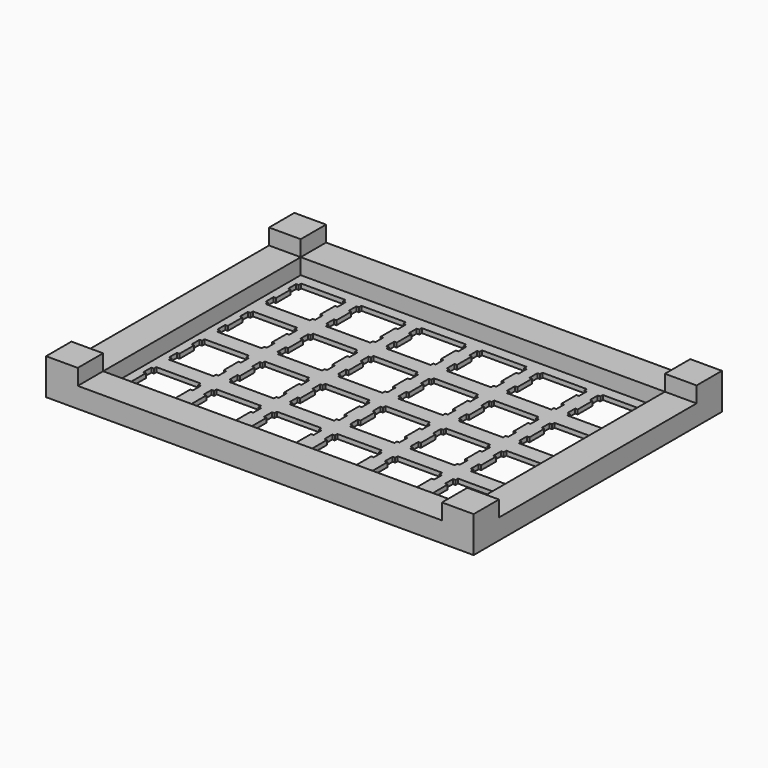
from build123d import *

# Parameters (mm, degrees)
F0_W     = 135
F0_H     = 98
F0_W_2   = 120.300293
F0_H_2   = 82.201274
F1_DEPTH = 1.4
F2_W     = 10
F2_H     = 10
F3_DEPTH = 10
F4_W     = 10
F4_H     = 78
F4_W_2   = 115
F4_H_2   = 10
F5_DEPTH = 5


with BuildPart() as f1:
    # F0 (on Top) → F1 (new body)
    with BuildSketch(Plane.XY):
        Rectangle(F0_W, F0_H)
        with Locations((0, 0)):
            Rectangle(F0_W_2, F0_H_2, mode=Mode.SUBTRACT)
        with Locations((0, 0)):
            Rectangle(F0_W_2, F0_H_2)
        Polygon((-54.625583, -22.574263), (-54.625583, -21.573863), (-40.624753, -21.573863), (-40.624753, -22.574263), (-39.825453, -22.574263), (-39.825453, -25.673463), (-40.624753, -25.673463), (-40.624753, -31.473673), (-39.825453, -31.473673), (-39.825453, -34.574233), (-40.624753, -34.574233), (-40.624753, -35.574713), (-54.625583, -35.574713), (-54.625583, -34.574233), (-55.426213, -34.574233), (-55.426213, -31.473673), (-54.625583, -31.473673), (-54.625583, -25.673463), (-55.426213, -25.673463), (-55.426213, -22.574263), align=None, mode=Mode.SUBTRACT)
        Polygon((-35.575553, -22.574263), (-35.575553, -21.573863), (-21.574853, -21.573863), (-21.574853, -22.574263), (-20.775453, -22.574263), (-20.775453, -25.673463), (-21.574853, -25.673463), (-21.574853, -31.473673), (-20.775453, -31.473673), (-20.775453, -34.574233), (-21.574853, -34.574233), (-21.574853, -35.574713), (-35.575553, -35.574713), (-35.575553, -34.574233), (-36.374853, -34.574233), (-36.374853, -31.473673), (-35.575553, -31.473673), (-35.575553, -25.673463), (-36.374853, -25.673463), (-36.374853, -22.574263), align=None, mode=Mode.SUBTRACT)
        Polygon((-16.525553, -22.574263), (-16.525553, -21.573863), (-2.524853, -21.573863), (-2.524853, -22.574263), (-1.725453, -22.574263), (-1.725453, -25.673463), (-2.524853, -25.673463), (-2.524853, -31.473673), (-1.725453, -31.473673), (-1.725453, -34.574233), (-2.524853, -34.574233), (-2.524853, -35.574713), (-16.525553, -35.574713), (-16.525553, -34.574233), (-17.324953, -34.574233), (-17.324953, -31.473673), (-16.525553, -31.473673), (-16.525553, -25.673463), (-17.324953, -25.673463), (-17.324953, -22.574263), align=None, mode=Mode.SUBTRACT)
        Polygon((-54.625583, -3.524363), (-54.625583, -2.523863), (-40.624753, -2.523863), (-40.624753, -3.524363), (-39.825453, -3.524363), (-39.825453, -6.624863), (-40.624753, -6.624863), (-40.624753, -12.423663), (-39.825453, -12.423663), (-39.825453, -15.524263), (-40.624753, -15.524263), (-40.624753, -16.524663), (-54.625583, -16.524663), (-54.625583, -15.524263), (-55.426213, -15.524263), (-55.426213, -12.423663), (-54.625583, -12.423663), (-54.625583, -6.624863), (-55.426213, -6.624863), (-55.426213, -3.524363), align=None, mode=Mode.SUBTRACT)
        Polygon((-35.575553, -3.524363), (-35.575553, -2.523863), (-21.574853, -2.523863), (-21.574853, -3.524363), (-20.775453, -3.524363), (-20.775453, -6.624863), (-21.574853, -6.624863), (-21.574853, -12.423663), (-20.775453, -12.423663), (-20.775453, -15.524263), (-21.574853, -15.524263), (-21.574853, -16.524663), (-35.575553, -16.524663), (-35.575553, -15.524263), (-36.374853, -15.524263), (-36.374853, -12.423663), (-35.575553, -12.423663), (-35.575553, -6.624863), (-36.374853, -6.624863), (-36.374853, -3.524363), align=None, mode=Mode.SUBTRACT)
        Polygon((-16.525553, -3.524363), (-16.525553, -2.523863), (-2.524853, -2.523863), (-2.524853, -3.524363), (-1.725453, -3.524363), (-1.725453, -6.624863), (-2.524853, -6.624863), (-2.524853, -12.423663), (-1.725453, -12.423663), (-1.725453, -15.524263), (-2.524853, -15.524263), (-2.524853, -16.524663), (-16.525553, -16.524663), (-16.525553, -15.524263), (-17.324953, -15.524263), (-17.324953, -12.423663), (-16.525553, -12.423663), (-16.525553, -6.624863), (-17.324953, -6.624863), (-17.324953, -3.524363), align=None, mode=Mode.SUBTRACT)
        Polygon((2.524447, -22.574263), (2.524447, -21.573863), (16.525147, -21.573863), (16.525147, -22.574263), (17.324547, -22.574263), (17.324547, -25.673463), (16.525147, -25.673463), (16.525147, -31.473673), (17.324547, -31.473673), (17.324547, -34.574233), (16.525147, -34.574233), (16.525147, -35.574713), (2.524447, -35.574713), (2.524447, -34.574233), (1.725047, -34.574233), (1.725047, -31.473673), (2.524447, -31.473673), (2.524447, -25.673463), (1.725047, -25.673463), (1.725047, -22.574263), align=None, mode=Mode.SUBTRACT)
        Polygon((21.574447, -22.574263), (21.574447, -21.573863), (35.575147, -21.573863), (35.575147, -22.574263), (36.374547, -22.574263), (36.374547, -25.673463), (35.575147, -25.673463), (35.575147, -31.473673), (36.374547, -31.473673), (36.374547, -34.574233), (35.575147, -34.574233), (35.575147, -35.574713), (21.574447, -35.574713), (21.574447, -34.574233), (20.775047, -34.574233), (20.775047, -31.473673), (21.574447, -31.473673), (21.574447, -25.673463), (20.775047, -25.673463), (20.775047, -22.574263), align=None, mode=Mode.SUBTRACT)
        Polygon((40.624147, -22.574263), (40.624147, -21.573863), (54.624147, -21.573863), (54.624147, -22.574263), (55.424147, -22.574263), (55.424147, -25.673463), (54.624147, -25.673463), (54.624147, -31.473673), (55.424147, -31.473673), (55.424147, -34.574233), (54.624147, -34.574233), (54.624147, -35.574713), (40.624147, -35.574713), (40.624147, -34.574233), (39.825147, -34.574233), (39.825147, -31.473673), (40.624147, -31.473673), (40.624147, -25.673463), (39.825147, -25.673463), (39.825147, -22.574263), align=None, mode=Mode.SUBTRACT)
        Polygon((2.524447, -3.524363), (2.524447, -2.523863), (16.525147, -2.523863), (16.525147, -3.524363), (17.324547, -3.524363), (17.324547, -6.624863), (16.525147, -6.624863), (16.525147, -12.423663), (17.324547, -12.423663), (17.324547, -15.524263), (16.525147, -15.524263), (16.525147, -16.524663), (2.524447, -16.524663), (2.524447, -15.524263), (1.725047, -15.524263), (1.725047, -12.423663), (2.524447, -12.423663), (2.524447, -6.624863), (1.725047, -6.624863), (1.725047, -3.524363), align=None, mode=Mode.SUBTRACT)
        Polygon((21.574447, -3.524363), (21.574447, -2.523863), (35.575147, -2.523863), (35.575147, -3.524363), (36.374547, -3.524363), (36.374547, -6.624863), (35.575147, -6.624863), (35.575147, -12.423663), (36.374547, -12.423663), (36.374547, -15.524263), (35.575147, -15.524263), (35.575147, -16.524663), (21.574447, -16.524663), (21.574447, -15.524263), (20.775047, -15.524263), (20.775047, -12.423663), (21.574447, -12.423663), (21.574447, -6.624863), (20.775047, -6.624863), (20.775047, -3.524363), align=None, mode=Mode.SUBTRACT)
        Polygon((40.624147, -3.524363), (40.624147, -2.523863), (54.624147, -2.523863), (54.624147, -3.524363), (55.424147, -3.524363), (55.424147, -6.624863), (54.624147, -6.624863), (54.624147, -12.423663), (55.424147, -12.423663), (55.424147, -15.524263), (54.624147, -15.524263), (54.624147, -16.524663), (40.624147, -16.524663), (40.624147, -15.524263), (39.825147, -15.524263), (39.825147, -12.423663), (40.624147, -12.423663), (40.624147, -6.624863), (39.825147, -6.624863), (39.825147, -3.524363), align=None, mode=Mode.SUBTRACT)
        Polygon((-54.625583, 15.525637), (-54.625583, 16.526137), (-40.624753, 16.526137), (-40.624753, 15.525637), (-39.825453, 15.525637), (-39.825453, 12.425037), (-40.624753, 12.425037), (-40.624753, 6.626437), (-39.825453, 6.626437), (-39.825453, 3.525937), (-40.624753, 3.525937), (-40.624753, 2.525437), (-54.625583, 2.525437), (-54.625583, 3.525937), (-55.426213, 3.525937), (-55.426213, 6.626437), (-54.625583, 6.626437), (-54.625583, 12.425037), (-55.426213, 12.425037), (-55.426213, 15.525637), align=None, mode=Mode.SUBTRACT)
        Polygon((-35.575553, 15.525637), (-35.575553, 16.526137), (-21.574853, 16.526137), (-21.574853, 15.525637), (-20.775453, 15.525637), (-20.775453, 12.425037), (-21.574853, 12.425037), (-21.574853, 6.626437), (-20.775453, 6.626437), (-20.775453, 3.525937), (-21.574853, 3.525937), (-21.574853, 2.525437), (-35.575553, 2.525437), (-35.575553, 3.525937), (-36.374853, 3.525937), (-36.374853, 6.626437), (-35.575553, 6.626437), (-35.575553, 12.425037), (-36.374853, 12.425037), (-36.374853, 15.525637), align=None, mode=Mode.SUBTRACT)
        Polygon((-16.525553, 15.525637), (-16.525553, 16.526137), (-2.524853, 16.526137), (-2.524853, 15.525637), (-1.725453, 15.525637), (-1.725453, 12.425037), (-2.524853, 12.425037), (-2.524853, 6.626437), (-1.725453, 6.626437), (-1.725453, 3.525937), (-2.524853, 3.525937), (-2.524853, 2.525437), (-16.525553, 2.525437), (-16.525553, 3.525937), (-17.324953, 3.525937), (-17.324953, 6.626437), (-16.525553, 6.626437), (-16.525553, 12.425037), (-17.324953, 12.425037), (-17.324953, 15.525637), align=None, mode=Mode.SUBTRACT)
        Polygon((-54.625583, 34.577037), (-54.625583, 35.576137), (-40.624753, 35.576137), (-40.624753, 34.577037), (-39.825453, 34.577037), (-39.825453, 31.476537), (-40.624753, 31.476537), (-40.624753, 25.676437), (-39.825453, 25.676437), (-39.825453, 22.575937), (-40.624753, 22.575937), (-40.624753, 21.575437), (-54.625583, 21.575437), (-54.625583, 22.575937), (-55.426213, 22.575937), (-55.426213, 25.676437), (-54.625583, 25.676437), (-54.625583, 31.476537), (-55.426213, 31.476537), (-55.426213, 34.577037), align=None, mode=Mode.SUBTRACT)
        Polygon((-35.575553, 34.577037), (-35.575553, 35.576137), (-21.574853, 35.576137), (-21.574853, 34.577037), (-20.775453, 34.577037), (-20.775453, 31.476537), (-21.574853, 31.476537), (-21.574853, 25.676437), (-20.775453, 25.676437), (-20.775453, 22.575937), (-21.574853, 22.575937), (-21.574853, 21.575437), (-35.575553, 21.575437), (-35.575553, 22.575937), (-36.374853, 22.575937), (-36.374853, 25.676437), (-35.575553, 25.676437), (-35.575553, 31.476537), (-36.374853, 31.476537), (-36.374853, 34.577037), align=None, mode=Mode.SUBTRACT)
        Polygon((-16.525553, 34.577037), (-16.525553, 35.576137), (-2.524853, 35.576137), (-2.524853, 34.577037), (-1.725453, 34.577037), (-1.725453, 31.476537), (-2.524853, 31.476537), (-2.524853, 25.676437), (-1.725453, 25.676437), (-1.725453, 22.575937), (-2.524853, 22.575937), (-2.524853, 21.575437), (-16.525553, 21.575437), (-16.525553, 22.575937), (-17.324953, 22.575937), (-17.324953, 25.676437), (-16.525553, 25.676437), (-16.525553, 31.476537), (-17.324953, 31.476537), (-17.324953, 34.577037), align=None, mode=Mode.SUBTRACT)
        Polygon((2.524447, 15.525637), (2.524447, 16.526137), (16.525147, 16.526137), (16.525147, 15.525637), (17.324547, 15.525637), (17.324547, 12.425037), (16.525147, 12.425037), (16.525147, 6.626437), (17.324547, 6.626437), (17.324547, 3.525937), (16.525147, 3.525937), (16.525147, 2.525437), (2.524447, 2.525437), (2.524447, 3.525937), (1.725047, 3.525937), (1.725047, 6.626437), (2.524447, 6.626437), (2.524447, 12.425037), (1.725047, 12.425037), (1.725047, 15.525637), align=None, mode=Mode.SUBTRACT)
        Polygon((21.574447, 15.525637), (21.574447, 16.526137), (35.575147, 16.526137), (35.575147, 15.525637), (36.374547, 15.525637), (36.374547, 12.425037), (35.575147, 12.425037), (35.575147, 6.626437), (36.374547, 6.626437), (36.374547, 3.525937), (35.575147, 3.525937), (35.575147, 2.525437), (21.574447, 2.525437), (21.574447, 3.525937), (20.775047, 3.525937), (20.775047, 6.626437), (21.574447, 6.626437), (21.574447, 12.425037), (20.775047, 12.425037), (20.775047, 15.525637), align=None, mode=Mode.SUBTRACT)
        Polygon((40.624147, 15.525637), (40.624147, 16.526137), (54.624147, 16.526137), (54.624147, 15.525637), (55.424147, 15.525637), (55.424147, 12.425037), (54.624147, 12.425037), (54.624147, 6.626437), (55.424147, 6.626437), (55.424147, 3.525937), (54.624147, 3.525937), (54.624147, 2.525437), (40.624147, 2.525437), (40.624147, 3.525937), (39.825147, 3.525937), (39.825147, 6.626437), (40.624147, 6.626437), (40.624147, 12.425037), (39.825147, 12.425037), (39.825147, 15.525637), align=None, mode=Mode.SUBTRACT)
        Polygon((2.524447, 34.577037), (2.524447, 35.576137), (16.525147, 35.576137), (16.525147, 34.577037), (17.324547, 34.577037), (17.324547, 31.476537), (16.525147, 31.476537), (16.525147, 25.676437), (17.324547, 25.676437), (17.324547, 22.575937), (16.525147, 22.575937), (16.525147, 21.575437), (2.524447, 21.575437), (2.524447, 22.575937), (1.725047, 22.575937), (1.725047, 25.676437), (2.524447, 25.676437), (2.524447, 31.476537), (1.725047, 31.476537), (1.725047, 34.577037), align=None, mode=Mode.SUBTRACT)
        Polygon((21.574447, 34.577037), (21.574447, 35.576137), (35.575147, 35.576137), (35.575147, 34.577037), (36.374547, 34.577037), (36.374547, 31.476537), (35.575147, 31.476537), (35.575147, 25.676437), (36.374547, 25.676437), (36.374547, 22.575937), (35.575147, 22.575937), (35.575147, 21.575437), (21.574447, 21.575437), (21.574447, 22.575937), (20.775047, 22.575937), (20.775047, 25.676437), (21.574447, 25.676437), (21.574447, 31.476537), (20.775047, 31.476537), (20.775047, 34.577037), align=None, mode=Mode.SUBTRACT)
        Polygon((40.624147, 34.577037), (40.624147, 35.576137), (54.624147, 35.576137), (54.624147, 34.577037), (55.424147, 34.577037), (55.424147, 31.476537), (54.624147, 31.476537), (54.624147, 25.676437), (55.424147, 25.676437), (55.424147, 22.575937), (54.624147, 22.575937), (54.624147, 21.575437), (40.624147, 21.575437), (40.624147, 22.575937), (39.825147, 22.575937), (39.825147, 25.676437), (40.624147, 25.676437), (40.624147, 31.476537), (39.825147, 31.476537), (39.825147, 34.577037), align=None, mode=Mode.SUBTRACT)
    extrude(amount=F1_DEPTH)

    # F2 (on face) → F3 (join)
    with BuildSketch(Plane.XY.offset(1.4)):
        with Locations((-62.5, 44)):
            Rectangle(F2_W, F2_H)
        with Locations((-62.5, -44)):
            Rectangle(F2_W, F2_H)
        with Locations((62.5, -44)):
            Rectangle(F2_W, F2_H)
        with Locations((62.5, 44)):
            Rectangle(F2_W, F2_H)
    extrude(amount=F3_DEPTH)

    # F4 (on face) → F5 (join)
    with BuildSketch(Plane.XY.offset(1.4)):
        with Locations((-62.5, 0)):
            Rectangle(F4_W, F4_H)
        with Locations((0, 44)):
            Rectangle(F4_W_2, F4_H_2)
        with Locations((62.5, 0)):
            Rectangle(F4_W, F4_H)
        with Locations((0, -44)):
            Rectangle(F4_W_2, F4_H_2)
    extrude(amount=F5_DEPTH)


solid = f1.part
